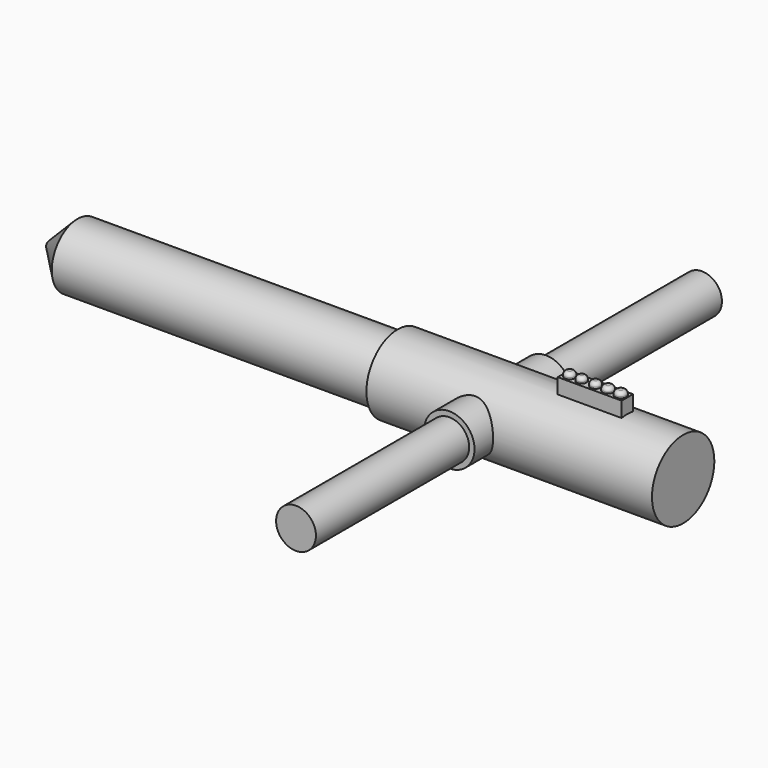
from build123d import *

# Parameters (mm, degrees)
F2_W          = 45.3275498003
F2_H          = 10.0727896206
F3_DEPTH      = 38.03461
F4_R          = 3.7424511677
F4_R_2        = 3.5261470512
F4_R_3        = 3.6359095311
F4_R_4        = 3.8460368356
F4_R_5        = 3.9469236809
F5_DEPTH      = 41.65382
F6_R          = 2.54
F7_R          = 17.8889337117
F8_DEPTH      = 44.1423
F8_DEPTH_BACK = 41.67547
F9_R          = 14.1805515082
F10_DEPTH     = 138.28307
F11_R         = 14.1254643939
F12_DEPTH     = 135.93821
F13_R         = 22.8595006753
F14_DEPTH     = 383.36018
F15_SIZE      = 20.32


with BuildPart() as f1:
    # F0 (on Front) → F1 (revolve)
    with BuildSketch(Plane.XZ):
        with BuildLine():
            ThreePointArc((-135.9826624393, 27.6467684404), (-108.3795851442, 20.2370228562), (-88.1979818456, 0))
            Line((-88.1979818456, 0), (66.6177645326, 0))
            Line((66.6177645326, 0), (66.6177645326, 2.8615880292))
            Line((66.6177645326, 2.8615880292), (66.6177645326, 21.5725427746))
            Line((66.6177645326, 21.5725427746), (66.6177645326, 24.6096556075))
            Line((66.6177645326, 24.6096556075), (66.6177645326, 27.6467684404))
            Line((66.6177645326, 27.6467684404), (-135.9826624393, 27.6467684404))
        make_face()
    revolve(axis=Axis((-10.7901086565, 0, 0), (1, 0, 0)))

    # F2 (on Top) → F3 (join)
    with BuildSketch(Plane.XY):
        with Locations((4.2187990621, 0.1144635025)):
            Rectangle(F2_W, F2_H)
    extrude(amount=F3_DEPTH)

    # F4 (on Top) → F5 (join)
    with BuildSketch(Plane.XY):
        with Locations((-13.8664385304, 0)):
            Circle(F4_R)
        with Locations((-5.3961379454, 0)):
            Circle(F4_R_2)
        with Locations((4.4477237388, 0)):
            Circle(F4_R_3)
        with Locations((13.3758848533, 0)):
            Circle(F4_R_4)
        with Locations((22.3040301353, 0)):
            Circle(F4_R_5)
    extrude(amount=F5_DEPTH)

    # F6
    f6_edges = [f1.edges().sort_by_distance(p)[0] for p in [
        (18.357106, 0, 41.65382),
        (9.529848, 0, 41.65382),
        (0.811814, 0, 41.65382),
        (-8.922285, 0, 41.65382),
        (-17.60889, 0, 41.65382),
    ]]
    fillet(f6_edges, radius=F6_R)

    # F7 (on Front) → F8 (join, two sides)
    with BuildSketch(Plane.XZ) as f8_sk:
        with Locations((-64.0014559031, 0)):
            Circle(F7_R)
    extrude(amount=F8_DEPTH)
    extrude(f8_sk.sketch, amount=-F8_DEPTH_BACK)


with BuildPart() as f10:
    # F9 (on face) → F10 (new body)
    with BuildSketch(Plane(origin=(0, 41.67547, 0), x_dir=(-1, 0, 0), z_dir=(0, 1, 0))):
        with Locations((64.0014559031, 0)):
            Circle(F9_R)
    extrude(amount=F10_DEPTH)


with BuildPart() as f12:
    # F11 (on face) → F12 (new body)
    with BuildSketch(Plane.XZ.offset(44.1423)):
        with Locations((-64.0014559031, 0)):
            Circle(F11_R)
    extrude(amount=F12_DEPTH)


with BuildPart() as f14:
    # F13 (on Right) → F14 (new body)
    with BuildSketch(Plane.YZ):
        Circle(F13_R)
    extrude(amount=-F14_DEPTH)

    # F15
    f15_edges = [f14.edges().sort_by_distance(p)[0] for p in [
        (-383.36018, -22.859501, 0),
    ]]
    chamfer(f15_edges, length=F15_SIZE)


solid = Compound([f1.part, f10.part, f12.part, f14.part])
